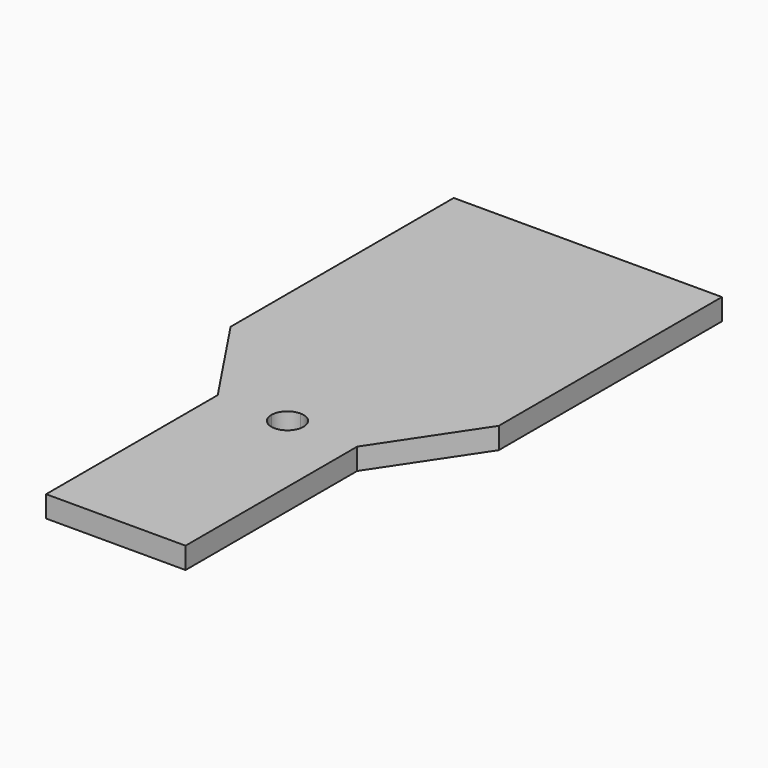
from build123d import *

# Parameters (mm, degrees)
F1_DEPTH = 2


with BuildPart() as f1:
    # F0 (on Top) → F1 (new body)
    with BuildSketch(Plane.XY):
        Polygon((12.5, 35), (-12.5, 35), (-12.5, 9), (0, 9), (12.5, 9), align=None)
        with BuildLine():
            Line((0, 9), (-12.5, 9))
            Line((-12.5, 9), (-6.5, 0))
            ThreePointArc((-6.5, 0), (-4.5961940777, 4.5961940777), (0, 6.5))
            Line((0, 6.5), (0, 9))
        make_face()
        with BuildLine():
            Line((6.5, 0), (12.5, 9))
            Line((12.5, 9), (0, 9))
            Line((0, 9), (0, 6.5))
            ThreePointArc((0, 6.5), (4.5961940777, 4.5961940777), (6.5, 0))
        make_face()
        with BuildLine():
            Line((-1.5, 0), (-6.5, 0))
            ThreePointArc((-6.5, 0), (0, -6.5), (6.5, 0))
            Line((6.5, 0), (1.5, 0))
            ThreePointArc((1.5, 0), (0, -1.5), (-1.5, 0))
        make_face()
        with BuildLine():
            ThreePointArc((0, 6.5), (-4.5961940777, 4.5961940777), (-6.5, 0))
            Line((-6.5, 0), (-1.5, 0))
            ThreePointArc((-1.5, 0), (-1.0606601718, 1.0606601718), (0, 1.5))
            Line((0, 1.5), (0, 6.5))
        make_face()
        with BuildLine():
            ThreePointArc((6.5, 0), (0, -6.5), (-6.5, 0))
            Line((-6.5, 0), (-6.5, -20))
            Line((-6.5, -20), (6.5, -20))
            Line((6.5, -20), (6.5, 0))
        make_face()
        with BuildLine():
            Line((1.5, 0), (6.5, 0))
            ThreePointArc((6.5, 0), (4.5961940777, 4.5961940777), (0, 6.5))
            Line((0, 6.5), (0, 1.5))
            ThreePointArc((0, 1.5), (1.0606601718, 1.0606601718), (1.5, 0))
        make_face()
    extrude(amount=F1_DEPTH)


solid = f1.part
